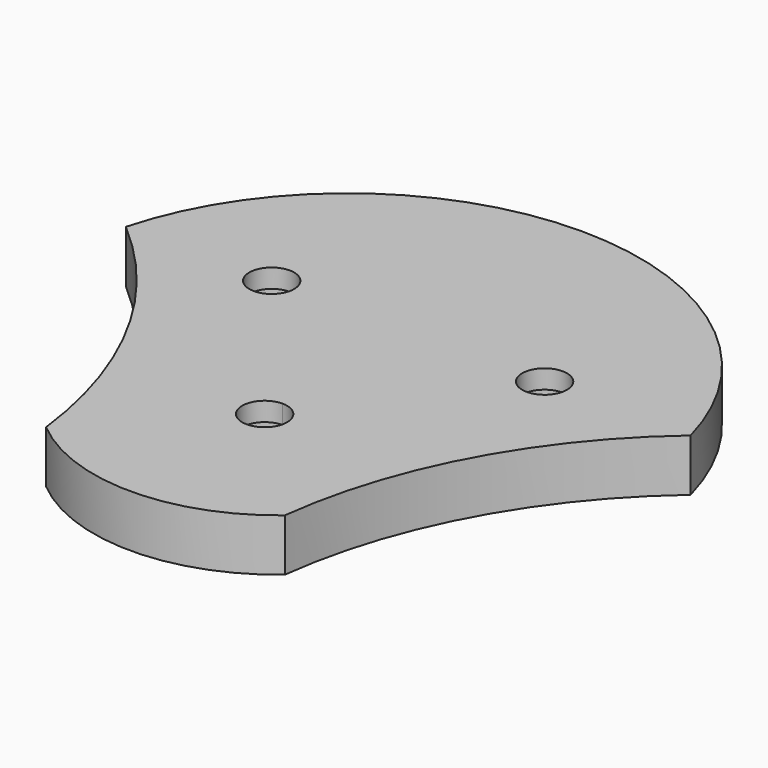
from build123d import *

# Parameters (mm, degrees)
F0_R     = 4
F0_R_2   = 3.25
F0_R_3   = 2.145
F1_DEPTH = 5
F2_DEPTH = 3.2


with BuildPart() as f1:
    # F0 (on Top) → F1 (new body)
    with BuildSketch(Plane.XY):
        with BuildLine():
            ThreePointArc((-10.6575777754, -53.0245751143), (-5.3198116886, -56.1150509582), (0.7539304934, -57.1885702394))
            ThreePointArc((0.7539304934, -57.1885702394), (6.8276726753, -56.1150509582), (12.1654387622, -53.0245751143))
            ThreePointArc((12.1654387622, -53.0245751143), (17.232310235, -37.0535716462), (27.7539304934, -24.013569904))
            ThreePointArc((27.7539304934, -24.013569904), (0.7539304934, -3.2972529395), (-26.2460695066, -24.013569904))
            ThreePointArc((-26.2460695066, -24.013569904), (-15.7244492482, -37.0535716462), (-10.6575777754, -53.0245751143))
        make_face()
        with BuildLine():
            ThreePointArc((4.7539304934, -41.1667175744), (3.5823576181, -43.9951446991), (0.7539304934, -45.1667175744))
            ThreePointArc((0.7539304934, -45.1667175744), (-3.2460695066, -41.1667175744), (0.7539304934, -37.1667175744))
            ThreePointArc((0.7539304934, -37.1667175744), (3.5823576181, -38.3382904496), (4.7539304934, -41.1667175744))
        make_face(mode=Mode.SUBTRACT)
        with Locations((-12.2910695066, -24.013569904)):
            Circle(F0_R, mode=Mode.SUBTRACT)
        with BuildLine():
            ThreePointArc((17.7989304934, -24.013569904), (13.7989304934, -28.013569904), (9.7989304934, -24.013569904))
            ThreePointArc((9.7989304934, -24.013569904), (13.7989304934, -20.013569904), (17.7989304934, -24.013569904))
        make_face(mode=Mode.SUBTRACT)
        with BuildLine():
            ThreePointArc((17.7989304934, -24.013569904), (13.7989304934, -20.013569904), (9.7989304934, -24.013569904))
            ThreePointArc((9.7989304934, -24.013569904), (13.7989304934, -28.013569904), (17.7989304934, -24.013569904))
        make_face()
        with BuildLine():
            ThreePointArc((17.0489304934, -24.013569904), (13.7989304934, -27.263569904), (10.5489304934, -24.013569904))
            ThreePointArc((10.5489304934, -24.013569904), (13.7989304934, -20.763569904), (17.0489304934, -24.013569904))
        make_face(mode=Mode.SUBTRACT)
        with Locations((-12.2910695066, -24.013569904)):
            Circle(F0_R)
        with Locations((-12.2910695066, -24.013569904)):
            Circle(F0_R_2, mode=Mode.SUBTRACT)
        with BuildLine():
            ThreePointArc((17.0489304934, -24.013569904), (13.7989304934, -20.763569904), (10.5489304934, -24.013569904))
            ThreePointArc((10.5489304934, -24.013569904), (13.7989304934, -27.263569904), (17.0489304934, -24.013569904))
        make_face()
        with BuildLine():
            ThreePointArc((15.9439304934, -24.013569904), (13.7989304934, -26.158569904), (11.6539304934, -24.013569904))
            ThreePointArc((11.6539304934, -24.013569904), (13.7989304934, -21.868569904), (15.9439304934, -24.013569904))
        make_face(mode=Mode.SUBTRACT)
        with Locations((-12.2910695066, -24.013569904)):
            Circle(F0_R_2)
        with Locations((-12.2910695066, -24.013569904)):
            Circle(F0_R_3, mode=Mode.SUBTRACT)
        with BuildLine():
            ThreePointArc((0.7539304934, -37.9167175744), (-2.4960695066, -41.1667175744), (0.7539304934, -44.4167175744))
            Line((0.7539304934, -44.4167175744), (0.7539304934, -43.3117175744))
            ThreePointArc((0.7539304934, -43.3117175744), (-1.3910695066, -41.1667175744), (0.7539304934, -39.0217175744))
            Line((0.7539304934, -39.0217175744), (0.7539304934, -37.9167175744))
        make_face()
        with BuildLine():
            Line((0.7539304934, -43.3117175744), (0.7539304934, -44.4167175744))
            ThreePointArc((0.7539304934, -44.4167175744), (3.0520275322, -43.4648146132), (4.0039304934, -41.1667175744))
            ThreePointArc((4.0039304934, -41.1667175744), (3.0520275322, -38.8686205355), (0.7539304934, -37.9167175744))
            Line((0.7539304934, -37.9167175744), (0.7539304934, -39.0217175744))
            ThreePointArc((0.7539304934, -39.0217175744), (2.270674539, -39.6499735287), (2.8989304934, -41.1667175744))
            ThreePointArc((2.8989304934, -41.1667175744), (2.270674539, -42.68346162), (0.7539304934, -43.3117175744))
        make_face()
        with BuildLine():
            ThreePointArc((0.7539304934, -37.1667175744), (-3.2460695066, -41.1667175744), (0.7539304934, -45.1667175744))
            Line((0.7539304934, -45.1667175744), (0.7539304934, -44.4167175744))
            ThreePointArc((0.7539304934, -44.4167175744), (-2.4960695066, -41.1667175744), (0.7539304934, -37.9167175744))
            Line((0.7539304934, -37.9167175744), (0.7539304934, -37.1667175744))
        make_face()
        with BuildLine():
            Line((0.7539304934, -44.4167175744), (0.7539304934, -45.1667175744))
            ThreePointArc((0.7539304934, -45.1667175744), (3.5823576181, -43.9951446991), (4.7539304934, -41.1667175744))
            ThreePointArc((4.7539304934, -41.1667175744), (3.5823576181, -38.3382904496), (0.7539304934, -37.1667175744))
            Line((0.7539304934, -37.1667175744), (0.7539304934, -37.9167175744))
            ThreePointArc((0.7539304934, -37.9167175744), (3.0520275322, -38.8686205355), (4.0039304934, -41.1667175744))
            ThreePointArc((4.0039304934, -41.1667175744), (3.0520275322, -43.4648146132), (0.7539304934, -44.4167175744))
        make_face()
    extrude(amount=F1_DEPTH)

    # F0 (on Top) → F2 (cut)
    with BuildSketch(Plane.XY):
        with BuildLine():
            ThreePointArc((17.0489304934, -24.013569904), (13.7989304934, -20.763569904), (10.5489304934, -24.013569904))
            ThreePointArc((10.5489304934, -24.013569904), (13.7989304934, -27.263569904), (17.0489304934, -24.013569904))
        make_face()
        with BuildLine():
            ThreePointArc((15.9439304934, -24.013569904), (13.7989304934, -26.158569904), (11.6539304934, -24.013569904))
            ThreePointArc((11.6539304934, -24.013569904), (13.7989304934, -21.868569904), (15.9439304934, -24.013569904))
        make_face(mode=Mode.SUBTRACT)
        with Locations((-12.2910695066, -24.013569904)):
            Circle(F0_R_2)
        with Locations((-12.2910695066, -24.013569904)):
            Circle(F0_R_3, mode=Mode.SUBTRACT)
        with BuildLine():
            ThreePointArc((0.7539304934, -37.9167175744), (-2.4960695066, -41.1667175744), (0.7539304934, -44.4167175744))
            Line((0.7539304934, -44.4167175744), (0.7539304934, -43.3117175744))
            ThreePointArc((0.7539304934, -43.3117175744), (-1.3910695066, -41.1667175744), (0.7539304934, -39.0217175744))
            Line((0.7539304934, -39.0217175744), (0.7539304934, -37.9167175744))
        make_face()
        with BuildLine():
            Line((0.7539304934, -43.3117175744), (0.7539304934, -44.4167175744))
            ThreePointArc((0.7539304934, -44.4167175744), (3.0520275322, -43.4648146132), (4.0039304934, -41.1667175744))
            ThreePointArc((4.0039304934, -41.1667175744), (3.0520275322, -38.8686205355), (0.7539304934, -37.9167175744))
            Line((0.7539304934, -37.9167175744), (0.7539304934, -39.0217175744))
            ThreePointArc((0.7539304934, -39.0217175744), (2.270674539, -39.6499735287), (2.8989304934, -41.1667175744))
            ThreePointArc((2.8989304934, -41.1667175744), (2.270674539, -42.68346162), (0.7539304934, -43.3117175744))
        make_face()
    extrude(amount=F2_DEPTH, mode=Mode.SUBTRACT)


solid = f1.part
